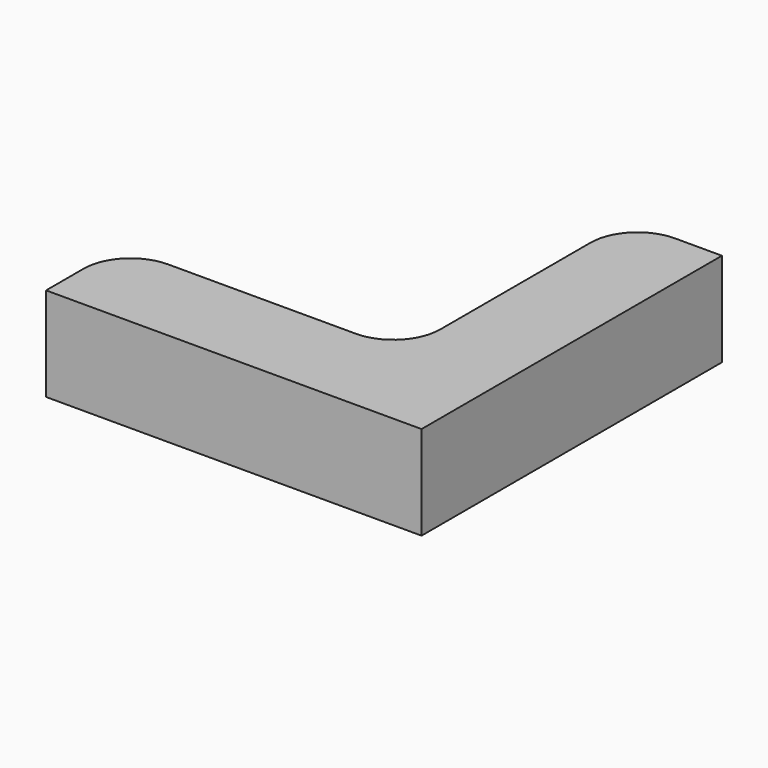
from build123d import *

# Parameters (mm, degrees)
F0_W     = 10
F0_H     = 30
F0_H_2   = 10
F0_W_2   = 30
F1_DEPTH = 10
F2_R     = 5


with BuildPart() as f1:
    # F0 (on Top) → F1 (new body)
    with BuildSketch(Plane.XY):
        with Locations((12.726616, 10.970803)):
            Rectangle(F0_W, F0_H)
        with Locations((12.726616, -9.029197)):
            Rectangle(F0_W, F0_H_2)
        with Locations((-7.273384, -9.029197)):
            Rectangle(F0_W_2, F0_H_2)
    extrude(amount=F1_DEPTH)

    # F2
    f2_edges = [f1.edges().sort_by_distance(p)[0] for p in [
        (7.726616, -4.029197, 5),
        (7.726616, 25.970803, 5),
        (-22.273384, -4.029197, 5),
    ]]
    fillet(f2_edges, radius=F2_R)


solid = f1.part
